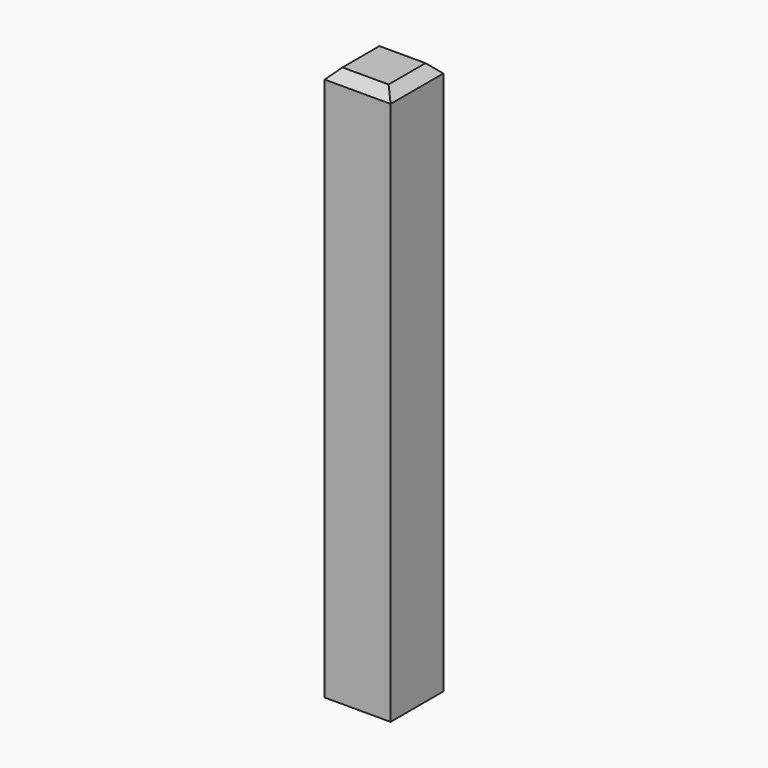
from build123d import *

# Parameters (mm, degrees)
F0_W     = 127
F0_H     = 127
F1_DEPTH = 1066.8
F2_SIZE  = 19.05


with BuildPart() as f1:
    # F0 (on Top) → F1 (new body)
    with BuildSketch(Plane.XY):
        Rectangle(F0_W, F0_H)
    extrude(amount=F1_DEPTH)

    # F2
    f2_edges = [f1.edges().sort_by_distance(p)[0] for p in [
        (0, -63.5, 1066.8),
        (-63.5, 0, 1066.8),
        (0, 63.5, 1066.8),
        (63.5, 0, 1066.8),
    ]]
    chamfer(f2_edges, length=F2_SIZE)


solid = f1.part
